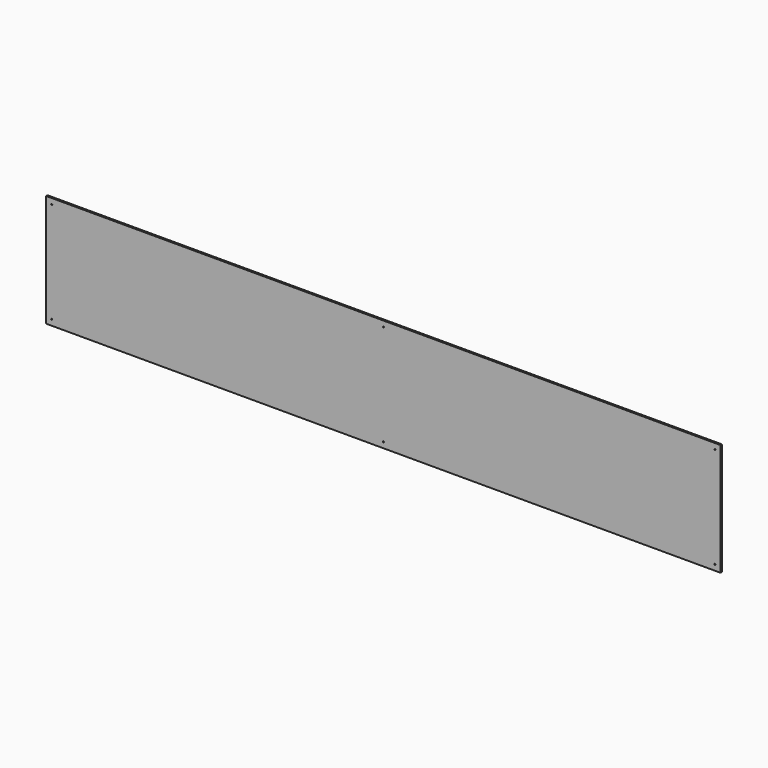
from build123d import *

# Parameters (mm, degrees)
F0_W     = 1800
F0_H     = 300
F0_R     = 1.5
F1_DEPTH = 4.5


with BuildPart() as f1:
    # F0 (on Front) → F1 (new body)
    with BuildSketch(Plane.XZ):
        with Locations((900, 150)):
            Rectangle(F0_W, F0_H)
        with Locations((15, 15)):
            Circle(F0_R, mode=Mode.SUBTRACT)
        with Locations((900, 15)):
            Circle(F0_R, mode=Mode.SUBTRACT)
        with Locations((1785, 15)):
            Circle(F0_R, mode=Mode.SUBTRACT)
        with Locations((15, 285)):
            Circle(F0_R, mode=Mode.SUBTRACT)
        with Locations((900, 285)):
            Circle(F0_R, mode=Mode.SUBTRACT)
        with Locations((1785, 285)):
            Circle(F0_R, mode=Mode.SUBTRACT)
    extrude(amount=F1_DEPTH)


solid = f1.part
